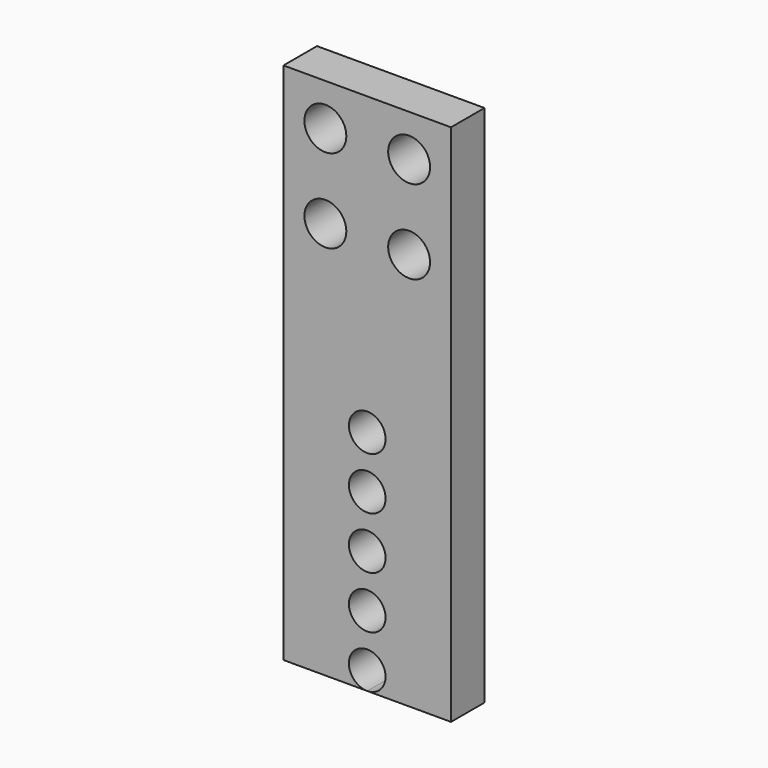
from build123d import *

# Parameters (mm, degrees)
CYLINDER019_R     = 1
CYLINDER019_DEPTH = 10
ARRAY022_X_COUNT  = 2
ARRAY022_X_PITCH  = 4
ARRAY022_Z_COUNT  = 2
ARRAY022_Z_PITCH  = 4
CYLINDER018_R     = 0.875
CYLINDER018_DEPTH = 10
ARRAY020_Z_COUNT  = 5
ARRAY020_Z_PITCH  = 2.5
BOX014_W          = 8
BOX014_H          = 2
BOX014_DEPTH      = 25


with BuildPart() as cameramountplaneconnectorscrews:
    # Cylinder019 → Cylinder019 (new body)
    with BuildSketch(Plane(origin=(2, 5, 19), x_dir=(1, 0, 0), z_dir=(0, -1, 0))):
        Circle(CYLINDER019_R)
    extrude(amount=CYLINDER019_DEPTH)

    # Array022 X: CameraMountPlaneConnectorScrews ×2


with BuildPart() as cameramountplaneconnectorscrews_1:
    add(cameramountplaneconnectorscrews.part)
    with Locations(*[(-i * ARRAY022_X_PITCH, 0, 0) for i in range(1, ARRAY022_X_COUNT)]):
        add(cameramountplaneconnectorscrews.part)

    # Array022 Z: CameraMountPlaneConnectorScrews ×2


with BuildPart() as cameramountplaneconnectorscrews_2:
    add(cameramountplaneconnectorscrews_1.part)
    with Locations(*[(0, 0, i * ARRAY022_Z_PITCH) for i in range(1, ARRAY022_Z_COUNT)]):
        add(cameramountplaneconnectorscrews_1.part)


with BuildPart() as servoscrewcutters:
    # Cylinder018 → Cylinder018 (new body)
    with BuildSketch(Plane(origin=(0, 5, 0.875), x_dir=(1, 0, 0), z_dir=(0, -1, 0))):
        Circle(CYLINDER018_R)
    extrude(amount=CYLINDER018_DEPTH)

    # Array020 Z: ServoScrewCutters ×5


with BuildPart() as servoscrewcutters_1:
    add(servoscrewcutters.part)
    with Locations(*[(0, 0, i * ARRAY020_Z_PITCH) for i in range(1, ARRAY020_Z_COUNT)]):
        add(servoscrewcutters.part)


with BuildPart() as obj1:
    # Box014 → Box014 (new body)
    with BuildSketch(Plane(origin=(-4, -1, 0), x_dir=(1, 0, 0), z_dir=(0, 0, 1))):
        with Locations((4, 1)):
            Rectangle(BOX014_W, BOX014_H)
    extrude(amount=BOX014_DEPTH)

    # Cut040: cut ServoScrewCutters
    add(servoscrewcutters_1.part, mode=Mode.SUBTRACT)

    # Cut041: cut CameraMountPlaneConnectorScrews
    add(cameramountplaneconnectorscrews_2.part, mode=Mode.SUBTRACT)


solid = obj1.part
